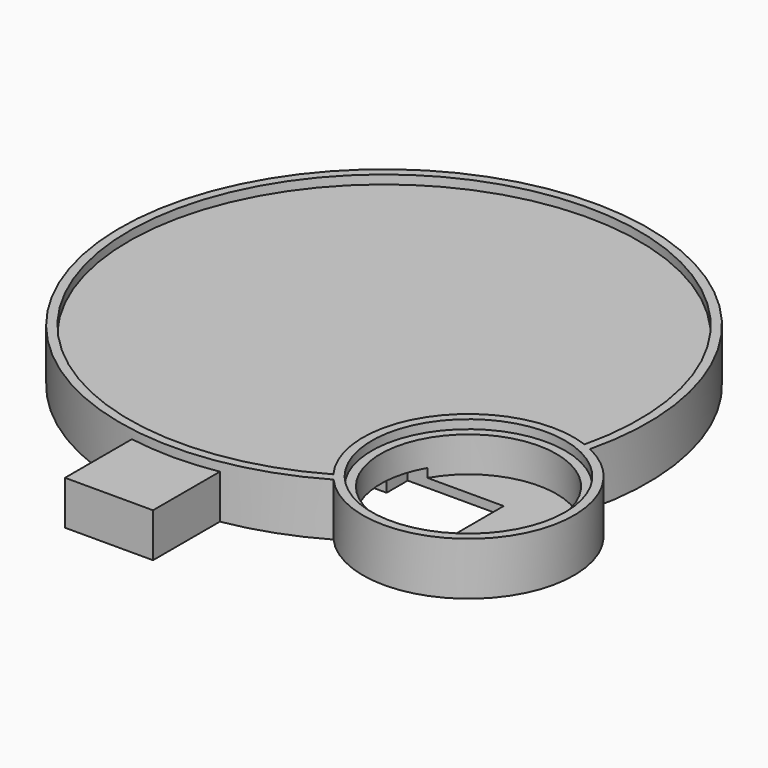
from build123d import *

# Parameters (mm, degrees)
SKETCH_R        = 30
PAD_DEPTH       = 6
SKETCH006_R     = 29
POCKET_DEPTH    = 1
SKETCH007_W     = 10
SKETCH007_H     = 9.5
PAD001_DEPTH    = 5
SKETCH002_R     = 12
PAD002_DEPTH    = 6
SKETCH003_R     = 11
POCKET001_DEPTH = 1
SKETCH004_R     = 10
POCKET002_DEPTH = 4
POCKET003_DEPTH = 2


with BuildPart() as part:
    # Sketch → Pad (new body)
    with BuildSketch(Plane.XY):
        Circle(SKETCH_R)
    extrude(amount=PAD_DEPTH)

    # Sketch006 (on Face3 of Pad) → Pocket (cut)
    with BuildSketch(Plane.XY.offset(6)):
        Circle(SKETCH006_R)
    extrude(amount=-POCKET_DEPTH, mode=Mode.SUBTRACT)

    # Sketch007 → Pad001 (join)
    with BuildSketch(Plane.XY):
        with Locations((0, -34.330399)):
            Rectangle(SKETCH007_W, SKETCH007_H)
    extrude(amount=PAD001_DEPTH)

    # Sketch002 → Pad002 (join)
    with BuildSketch(Plane.XY):
        with Locations((24, -18)):
            Circle(SKETCH002_R)
    extrude(amount=PAD002_DEPTH)

    # Sketch003 (on Face14 of Pad002) → Pocket001 (cut)
    with BuildSketch(Plane.XY.offset(6)):
        with Locations((24, -18)):
            Circle(SKETCH003_R)
    extrude(amount=-POCKET001_DEPTH, mode=Mode.SUBTRACT)

    # Sketch004 (on Face24 of Pocket001) → Pocket002 (cut)
    with BuildSketch(Plane.XY.offset(5)):
        with Locations((24, -18)):
            Circle(SKETCH004_R)
    extrude(amount=-POCKET002_DEPTH, mode=Mode.SUBTRACT)

    # Sketch005 → Pocket003 (cut)
    with BuildSketch(Plane(origin=(0, 0, 0), x_dir=(1, 0, 0), z_dir=(0, 0, -1))):
        Polygon((13.091288, 23), (24, 23), (24, 13), (13.091288, 13), (13.091288, 16), (0, 16), (-2, 16), (-2, 34.580399), (2, 34.580399), (2, 20), (13.091288, 20), align=None)
    extrude(amount=-POCKET003_DEPTH, mode=Mode.SUBTRACT)


solid = part.part
